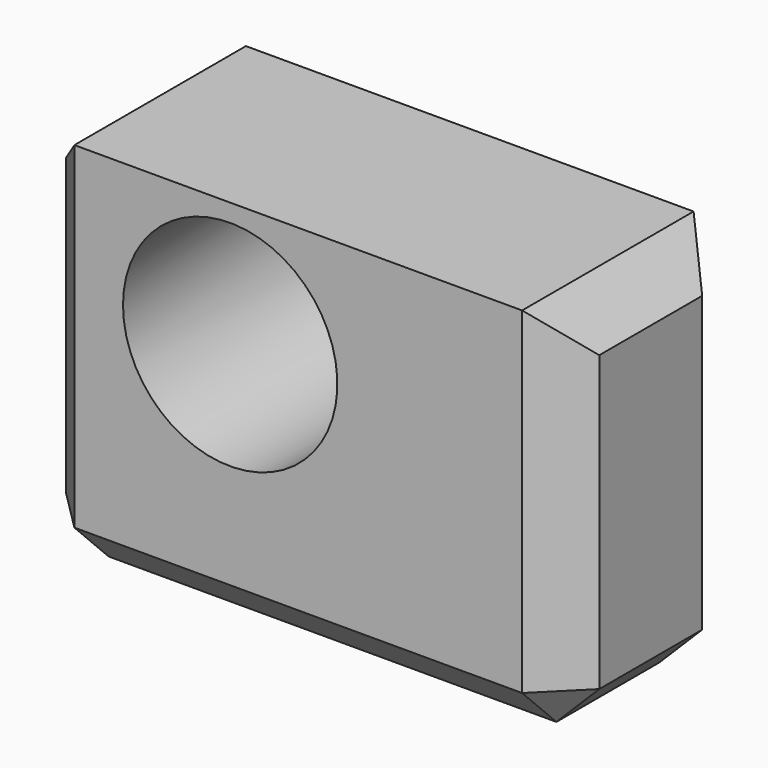
from build123d import *

# Parameters (mm, degrees)
F0_W     = 63.210748136
F0_H     = 44.9878275394
F1_DEPTH = 25.4
F3_D     = 25.4
F4_SIZE  = 5.08


with BuildPart() as f1:
    # F0 (on Front) → F1 (new body)
    with BuildSketch(Plane.XZ):
        Rectangle(F0_W, F0_H)
    extrude(amount=F1_DEPTH)

    # F3 (through all)
    with Locations(Plane(origin=(0, 0, 0), x_dir=(1, 0, 0), z_dir=(0, 1, 0))):
        with Locations((-8.0674383789, -7.687793579)):
            Hole(F3_D / 2)

    # F4
    f4_edges = [f1.edges().sort_by_distance(p)[0] for p in [
        (31.605374, -12.7, -22.493914),
        (31.605374, -12.7, 22.493914),
        (31.605374, 0, 0),
        (31.605374, -25.4, 0),
        (-31.605374, -12.7, 22.493914),
        (-31.605374, -12.7, -22.493914),
        (-31.605374, 0, 0),
        (-31.605374, -25.4, 0),
        (0, 0, -22.493914),
        (0, -25.4, -22.493914),
    ]]
    chamfer(f4_edges, length=F4_SIZE)


solid = f1.part
